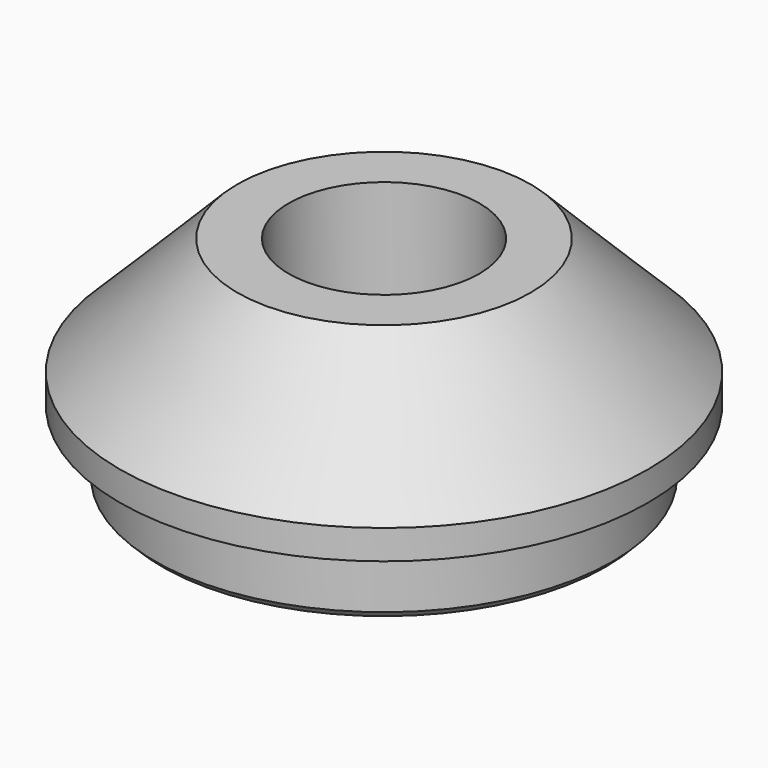
from build123d import *

# Parameters (mm, degrees)
F0_R     = 24.765
F1_DEPTH = 7.62
F2_R     = 28.575
F3_DEPTH = 15.875
F4_SIZE2 = 12.7
F4_SIZE  = 12.7
F5_R     = 10.31875
F6_DEPTH = 23.496
F7_SIZE  = 0.79375


with BuildPart() as f1:
    # F0 (on Top) → F1 (new body)
    with BuildSketch(Plane.XY):
        Circle(F0_R)
    extrude(amount=F1_DEPTH)

    # F2 (on face) → F3 (join)
    with BuildSketch(Plane.XY.offset(7.62)):
        Circle(F2_R)
    extrude(amount=F3_DEPTH)

    # F4
    f4_edges = [f1.edges().sort_by_distance(p)[0] for p in [
        (-28.575, 0, 23.495),
    ]]
    chamfer(f4_edges, length=F4_SIZE, length2=F4_SIZE2)

    # F5 (on face) → F6 (cut, through all)
    with BuildSketch(Plane.XY.offset(23.495)):
        Circle(F5_R)
    extrude(amount=-F6_DEPTH, mode=Mode.SUBTRACT)

    # F7
    f7_edges = [f1.edges().sort_by_distance(p)[0] for p in [
        (-24.765, 0, 0),
    ]]
    chamfer(f7_edges, length=F7_SIZE)


solid = f1.part
